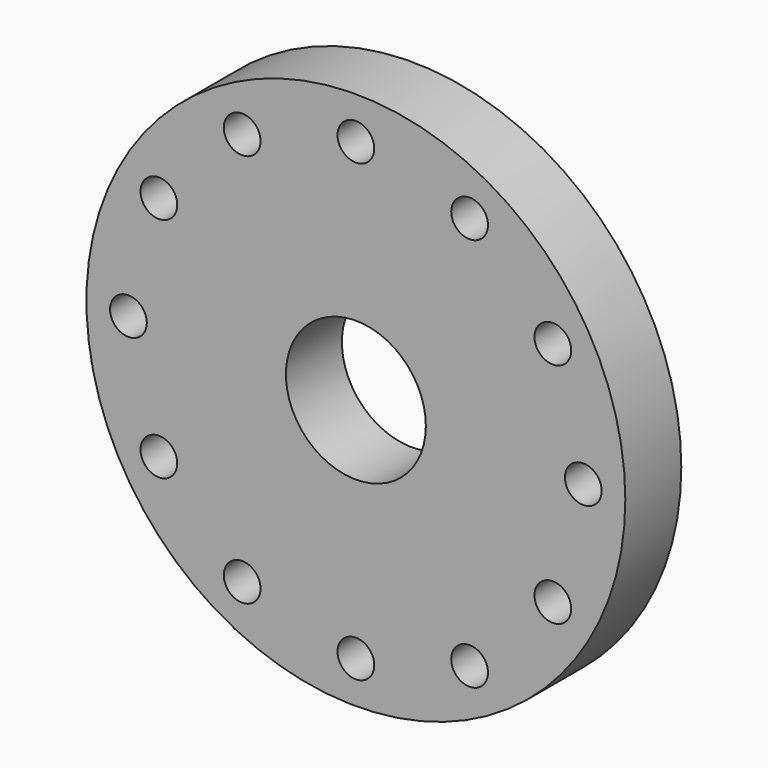
from build123d import *

# Parameters (mm, degrees)
F0_R     = 77
F0_R_2   = 20
F1_DEPTH = 20
F3_D     = 10.5


with BuildPart() as f1:
    # F0 (on Front) → F1 (new body)
    with BuildSketch(Plane.XZ):
        Circle(F0_R)
        Circle(F0_R_2, mode=Mode.SUBTRACT)
    extrude(amount=F1_DEPTH)

    # F3 (through all)
    with Locations(Plane.XZ.offset(20)):
        with Locations((56.291651, -32.5), (65, 0), (56.291651, 32.5), (32.5, 56.291651), (0, 65), (-32.5, 56.291651), (-56.291651, 32.5), (-65, 0), (-56.291651, -32.5), (-32.5, -56.291651), (0, -65), (32.5, -56.291651)):
            Hole(F3_D / 2)


solid = f1.part
